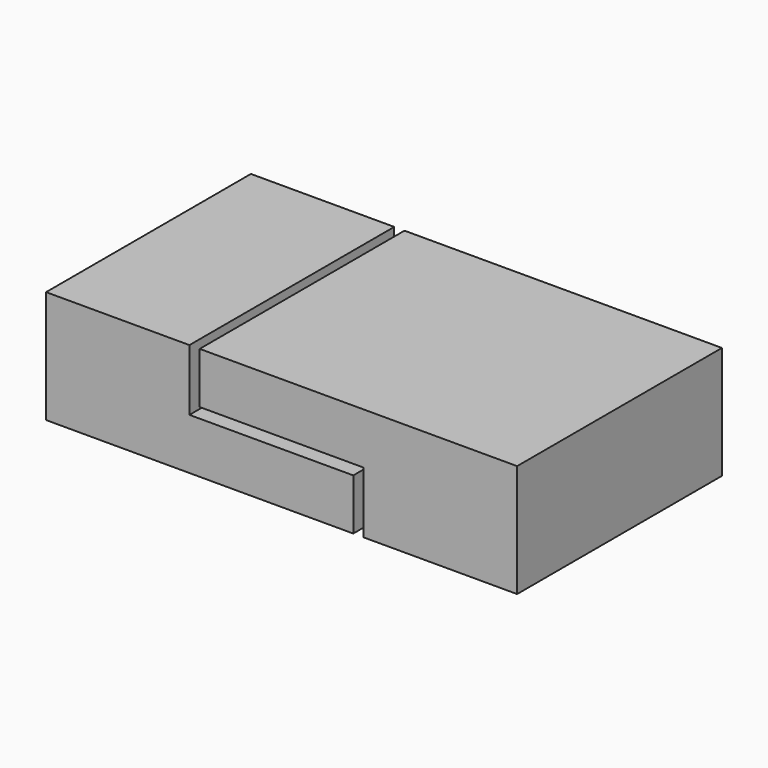
from build123d import *

# Parameters (mm, degrees)
F0_W     = 3
F0_H     = 1.2
F0_W_2   = 2.8
F1_DEPTH = 5


with BuildPart() as f1:
    # F0 (on Front) → F1 (new body)
    with BuildSketch(Plane.XZ):
        Polygon((-6, 0), (0, 0), (0, 1), (-3.2, 1), (-6, 1), align=None)
        with Locations((1.7, 0.6)):
            Rectangle(F0_W, F0_H)
        Polygon((3.2, 2.2), (-3, 2.2), (-3, 1.2), (0.2, 1.2), (3.2, 1.2), align=None)
        with Locations((-4.6, 1.6)):
            Rectangle(F0_W_2, F0_H)
    extrude(amount=F1_DEPTH)


solid = f1.part
